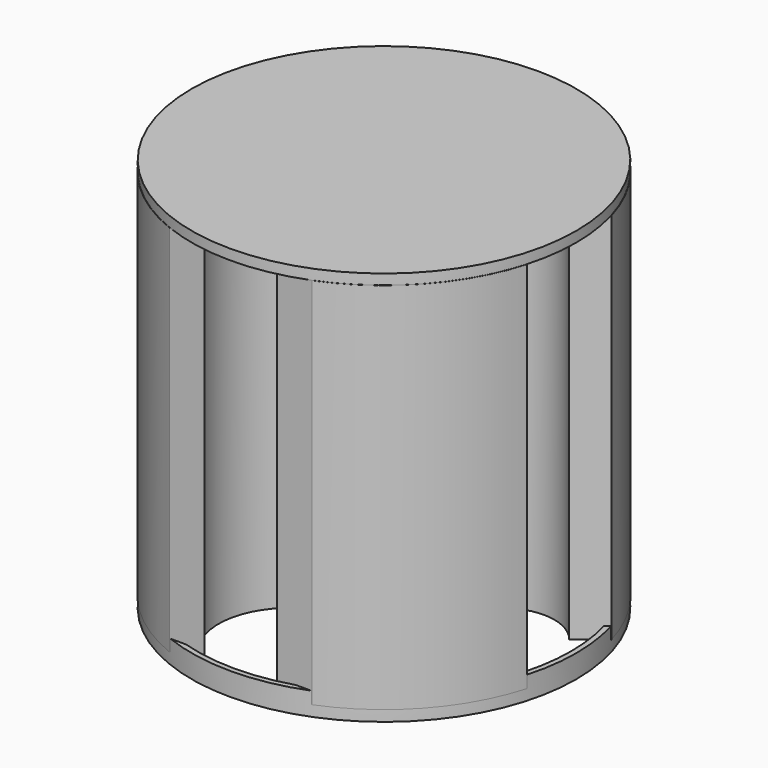
from build123d import *

# Parameters (mm, degrees)
F1_DEPTH = 65
F2_R     = 33.47406
F3_DEPTH = 1.8
F5_START = -62.9
F4_R     = 33.47406
F4_R_2   = 32.57406
F5_DEPTH = 4
F7_START = -52.7
F6_R     = 4.1
F7_DEPTH = 12.3


with BuildPart() as f1:
    # F0 (on Top) → F1 (new body)
    with BuildSketch(Plane.XY):
        with BuildLine():
            ThreePointArc((-6.301205687, -31.1349322809), (0, -8.0552877694), (6.301205687, -31.1349322809))
            Line((6.301205687, -31.1349322809), (12.4, -31.1349322809))
            ThreePointArc((12.4, -31.1349322809), (24.8626517269, -22.4720394544), (32.2258282769, -9.2))
            Line((32.2258282769, -9.2), (27.7038375399, -5.6655561268))
            ThreePointArc((27.7038375399, -5.6655561268), (11.2552877694, 0), (27.7038375399, 5.6655561268))
            Line((27.7038375399, 5.6655561268), (32.2258282769, 9.2))
            ThreePointArc((32.2258282769, 9.2), (23.9908874936, 23.4004556666), (10, 31.9866223308))
            Line((10, 31.9866223308), (6.5516160367, 28.0101754131))
            ThreePointArc((6.5516160367, 28.0101754131), (0, 10.4552877694), (-6.5516160367, 28.0101754131))
            Line((-6.5516160367, 28.0101754131), (-10, 31.9866223308))
            ThreePointArc((-10, 31.9866223308), (-23.3602452547, 24.0300426503), (-31.6912291989, 10.9))
            Line((-31.6912291989, 10.9), (-28.2788214738, 7.5896192511))
            ThreePointArc((-28.2788214738, 7.5896192511), (-9.5552877694, 0), (-28.2788214738, -7.5896192511))
            Line((-28.2788214738, -7.5896192511), (-31.6912291989, -10.9))
            ThreePointArc((-31.6912291989, -10.9), (-24.256385637, -23.125132734), (-12.4, -31.1349322809))
            Line((-12.4, -31.1349322809), (-6.301205687, -31.1349322809))
        make_face()
    extrude(amount=-F1_DEPTH)

    # F2 (on Top) → F3 (join)
    with BuildSketch(Plane.XY):
        Circle(F2_R)
    extrude(amount=F3_DEPTH)

    # F4 (on Top) → F5 (join)
    with BuildSketch(Plane.XY.offset(F5_START)):
        Circle(F4_R)
        Circle(F4_R_2, mode=Mode.SUBTRACT)
    extrude(amount=-F5_DEPTH)

    # F6 (on Top) → F7 (cut)
    with BuildSketch(Plane.XY.offset(F7_START)):
        Circle(F6_R)
    extrude(amount=-F7_DEPTH, mode=Mode.SUBTRACT)


solid = f1.part
